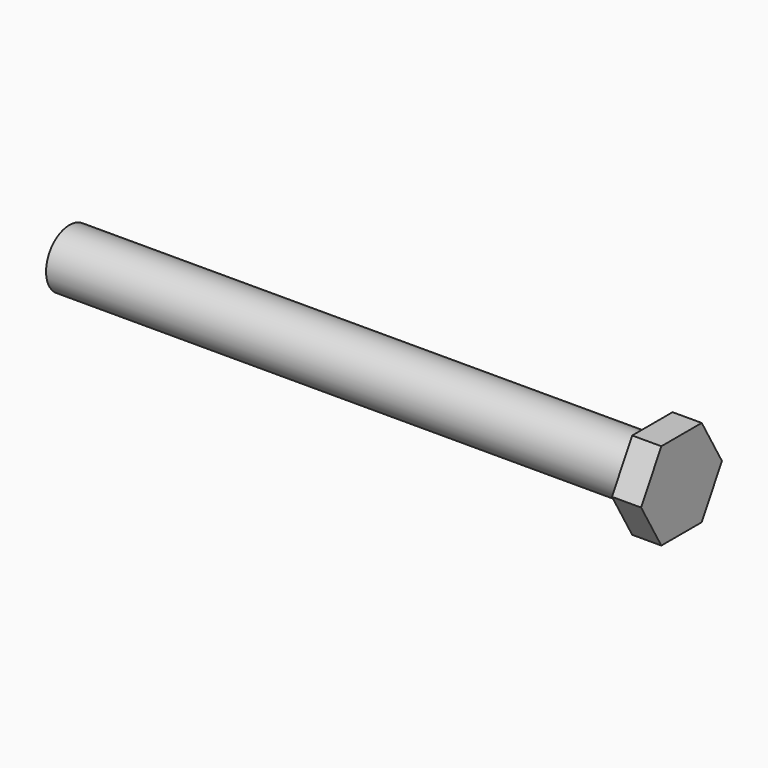
from build123d import *

# Parameters (mm, degrees)
F0_R     = 6.35
F1_DEPTH = 127
F3_DEPTH = 6.35


with BuildPart() as f1:
    # F0 (on Right) → F1 (new body)
    with BuildSketch(Plane.YZ):
        Circle(F0_R)
    extrude(amount=F1_DEPTH)

    # F2 (on face) → F3 (join)
    with BuildSketch(Plane.YZ.offset(127)):
        Polygon((5.499261, 9.525), (-5.499261, 9.525), (-10.998523, 0), (-5.499261, -9.525), (5.499261, -9.525), (10.998523, 0), align=None)
    extrude(amount=F3_DEPTH)


solid = f1.part
